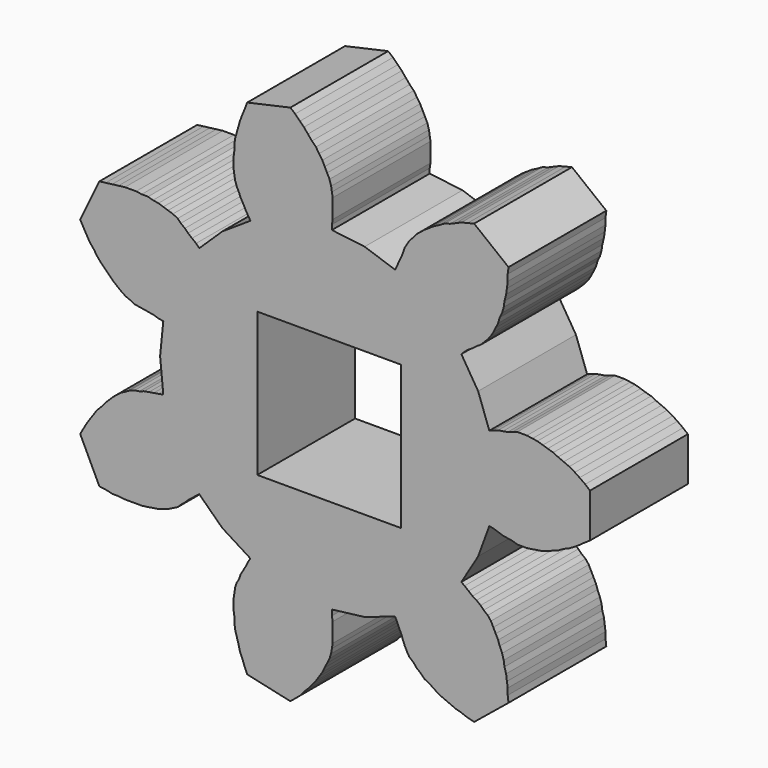
from build123d import *

# Parameters (mm, degrees)
F0_W     = 15.24
F0_H     = 15.24
F1_DEPTH = 12.954


with BuildPart() as f1:
    # F0 (on Front) → F1 (new body)
    with BuildSketch(Plane.XZ):
        Polygon((14.055344, 15.240483), (15.83309, 18.203393), (17.018, 21.421065), (17.44091, 21.335721), (17.949672, 21.166049), (18.456656, 20.998155), (18.965418, 20.912303), (19.473672, 20.828483), (19.98091, 20.659065), (20.489418, 20.659065), (20.997672, 20.659065), (21.590254, 20.743139), (22.097492, 20.828483), (22.68982, 20.912303), (23.198582, 21.081975), (23.79091, 21.335721), (24.299672, 21.505139), (24.892, 21.843975), (25.484582, 22.097721), (26.077418, 22.436811), (26.585672, 22.775647), (27.178254, 23.198811), (27.685238, 23.537647), (27.685238, 28.193975), (27.178254, 28.617139), (26.585672, 29.040049), (26.077418, 29.379139), (25.484582, 29.717975), (24.892, 29.971721), (24.299672, 30.226737), (23.79091, 30.479975), (23.198582, 30.649901), (22.68982, 30.819065), (22.097492, 30.988737), (21.590254, 31.072811), (20.997672, 31.156631), (20.489418, 31.156631), (19.98091, 31.156631), (19.473672, 30.988737), (18.965418, 30.819065), (18.456656, 30.733721), (17.949672, 30.649901), (17.44091, 30.479975), (17.018, 30.310811), (15.83309, 33.612303), (14.055344, 36.491393), (14.39291, 36.829975), (14.817344, 37.169065), (15.240254, 37.422811), (15.663418, 37.761901), (16.086582, 38.015393), (16.425418, 38.354483), (16.848582, 38.777393), (17.187672, 39.200303), (17.44091, 39.623467), (17.694656, 40.131975), (17.949672, 40.640483), (18.11909, 41.233065), (18.372582, 41.740049), (18.542, 42.332631), (18.626328, 42.926737), (18.795746, 43.603393), (18.88109, 44.195721), (18.965418, 44.873901), (18.965418, 45.550303), (19.050762, 46.228483), (15.409926, 49.107065), (14.732, 48.937901), (14.055344, 48.767975), (13.461238, 48.514737), (12.868656, 48.259721), (12.276328, 48.090049), (11.683746, 47.752483), (11.176762, 47.497721), (10.668, 47.160155), (10.159492, 46.821065), (9.736582, 46.481975), (9.313418, 46.143139), (8.974328, 45.719975), (8.551418, 45.296811), (8.297672, 44.873901), (8.04291, 44.449467), (7.873238, 43.942483), (7.705344, 43.519065), (7.450328, 43.010811), (7.28091, 42.587901), (7.027418, 42.079139), (3.809492, 43.179975), (0.338328, 43.603393), (0.338328, 44.111647), (0.423672, 44.619139), (0.423672, 45.127393), (0.423672, 45.635647), (0.423672, 46.143139), (0.423672, 46.651393), (0.338328, 47.160155), (0.254254, 47.667139), (0.084582, 48.259721), (-0.16891, 48.767975), (-0.423672, 49.276737), (-0.677418, 49.783721), (-1.016254, 50.292483), (-1.355344, 50.799467), (-1.778254, 51.223901), (-2.201418, 51.731139), (-2.624582, 52.239393), (-3.047746, 52.662303), (-3.556, 53.171065), (-4.064762, 53.593975), (-8.635746, 52.578483), (-8.890508, 51.900303), (-9.144, 51.307975), (-9.397746, 50.631573), (-9.56691, 50.038737), (-9.736582, 49.444631), (-9.906, 48.852303), (-9.990074, 48.259721), (-9.990074, 47.667139), (-10.075672, 47.074811), (-10.075672, 46.481975), (-10.075672, 45.889393), (-9.990074, 45.381139), (-9.906, 44.873901), (-9.736582, 44.365393), (-9.48309, 43.856631), (-9.313418, 43.433721), (-9.06018, 43.010811), (-8.80491, 42.502303), (-8.551418, 42.079139), (-8.29818, 41.655975), (-11.260582, 39.709065), (-13.716254, 37.338737), (-14.055344, 37.676303), (-14.478508, 38.015393), (-14.901418, 38.354483), (-15.240508, 38.693573), (-15.663418, 39.031139), (-16.002508, 39.369975), (-16.509746, 39.623467), (-17.018, 39.793139), (-17.526762, 39.962303), (-18.033746, 40.131975), (-18.626328, 40.216049), (-19.134582, 40.385721), (-19.811238, 40.385721), (-20.405344, 40.471065), (-20.99818, 40.471065), (-21.590508, 40.471065), (-22.26691, 40.385721), (-22.94509, 40.301393), (-23.621746, 40.216049), (-24.299672, 40.131975), (-26.33091, 35.898811), (-25.993344, 35.305975), (-25.654254, 34.713393), (-25.315418, 34.121065), (-24.892508, 33.612303), (-24.553418, 33.105573), (-24.13, 32.596811), (-23.70709, 32.173901), (-23.282656, 31.749467), (-22.859746, 31.326303), (-22.436582, 30.988737), (-22.013418, 30.649901), (-21.50491, 30.310811), (-21.082, 30.141393), (-20.573238, 29.887647), (-20.066254, 29.802303), (-19.558, 29.717975), (-19.049238, 29.632631), (-18.542508, 29.548811), (-18.033746, 29.379139), (-17.526762, 29.295065), (-17.864328, 25.907975), (-17.526762, 22.436811), (-18.033746, 22.352483), (-18.542508, 22.267139), (-19.049238, 22.183065), (-19.558, 22.097721), (-20.066254, 21.928049), (-20.573238, 21.843975), (-21.082, 21.674811), (-21.50491, 21.421065), (-22.013418, 21.166049), (-22.436582, 20.828483), (-22.859746, 20.489393), (-23.282656, 20.066483), (-23.70709, 19.643573), (-24.13, 19.134811), (-24.553418, 18.711901), (-24.892508, 18.203393), (-25.315418, 17.610811), (-25.654254, 17.102303), (-25.993344, 16.509721), (-26.33091, 15.917139), (-24.299672, 11.683721), (-23.621746, 11.599901), (-22.94509, 11.429975), (-22.26691, 11.429975), (-21.590508, 11.344631), (-20.99818, 11.344631), (-20.405344, 11.344631), (-19.811238, 11.344631), (-19.134582, 11.429975), (-18.626328, 11.514303), (-18.033746, 11.599901), (-17.526762, 11.769065), (-17.018, 11.938737), (-16.509746, 12.192483), (-16.002508, 12.445721), (-15.663418, 12.784811), (-15.240508, 13.123901), (-14.901418, 13.461467), (-14.478508, 13.800303), (-14.055344, 14.139393), (-13.716254, 14.393139), (-11.260582, 12.022811), (-8.29818, 10.159721), (-8.551418, 9.736811), (-8.80491, 9.228049), (-9.06018, 8.805139), (-9.313418, 8.381975), (-9.48309, 7.873467), (-9.736582, 7.450303), (-9.906, 6.943573), (-9.990074, 6.434811), (-10.075672, 5.842483), (-10.075672, 5.333721), (-10.075672, 4.741393), (-9.990074, 4.148811), (-9.990074, 3.555975), (-9.906, 2.963393), (-9.736582, 2.371065), (-9.56691, 1.778483), (-9.397746, 1.100303), (-9.144, 0.507975), (-8.890508, -0.168427), (-8.635746, -0.761263), (-4.064762, -1.778279), (-3.556, -1.355369), (-3.047746, -0.930935), (-2.624582, -0.423697), (-2.201418, -0.000533), (-1.778254, 0.507975), (-1.355344, 1.016483), (-1.016254, 1.523467), (-0.677418, 2.031975), (-0.423672, 2.540483), (-0.16891, 3.047721), (0.084582, 3.555975), (0.254254, 4.064737), (0.338328, 4.571721), (0.423672, 5.079975), (0.423672, 5.588737), (0.423672, 6.095721), (0.423672, 6.604483), (0.423672, 7.111467), (0.338328, 7.619975), (0.338328, 8.212303), (3.809492, 8.635721), (7.027418, 9.736811), (7.28091, 9.228049), (7.450328, 8.805139), (7.705344, 8.298155), (7.873238, 7.789393), (8.04291, 7.366483), (8.297672, 6.857975), (8.551418, 6.434811), (8.974328, 6.095721), (9.313418, 5.672811), (9.736582, 5.333721), (10.159492, 4.910811), (10.668, 4.657065), (11.176762, 4.317975), (11.683746, 3.979139), (12.276328, 3.725647), (12.868656, 3.472155), (13.461238, 3.217139), (14.055344, 3.047721), (14.732, 2.793975), (15.409926, 2.624811), (19.050762, 5.588737), (18.965418, 6.265393), (18.965418, 6.943573), (18.88109, 7.535901), (18.795746, 8.212303), (18.626328, 8.805139), (18.542, 9.397721), (18.372582, 9.990049), (18.11909, 10.582631), (17.949672, 11.091393), (17.694656, 11.599901), (17.44091, 12.106631), (17.187672, 12.615393), (16.848582, 13.038303), (16.425418, 13.377393), (16.086582, 13.716483), (15.663418, 14.055573), (15.240254, 14.309065), (14.817344, 14.648155), (14.39291, 14.985721), align=None)
        with Locations((0.050458, 25.807936)):
            Rectangle(F0_W, F0_H, mode=Mode.SUBTRACT)
    extrude(amount=F1_DEPTH)


solid = f1.part
